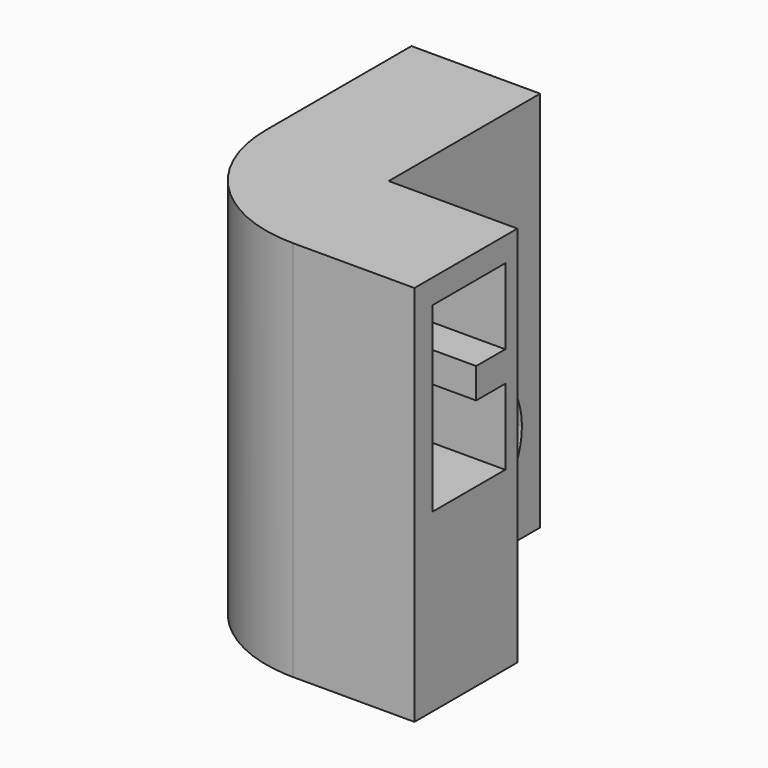
from build123d import *

# Parameters (mm, degrees)
F0_W      = 28.5392315894
F0_H      = 48.2956362042
F1_DEPTH  = 25.4
F1_FACE_W = 28.5392315894
F1_FACE_H = 48.2956362042
F2_ANGLE  = 90
F3_DEPTH  = 25.4
F4_W      = 26.9696157947
F4_H      = 26.9696157947
F5_DEPTH  = 50.14334
F8_W      = 6.35
F8_H      = 25.4
F9_DEPTH  = 25.4
F10_R     = 2.5796875
F11_DEPTH = 50.8
F13_DEPTH = 12.7
F15_DEPTH = 6.35
F16_DEPTH = 50.8


with BuildPart() as f1:
    # F0 (on Front) → F1 (new body)
    with BuildSketch(Plane.XZ):
        with Locations((-3.175, -0.3527777778)):
            Rectangle(F0_W, F0_H)
        Polygon((-12.7, -19.4027777778), (-12.7, 18.6972222222), (6.35, 18.6972222222), (6.35, 2.8222222222), (-1.27, 2.8222222222), (-1.27, -3.5277777778), (6.35, -3.5277777778), (6.35, -19.4027777778), align=None, mode=Mode.SUBTRACT)
    extrude(amount=F1_DEPTH)

    # F1_face (on face) → F2 (revolve)
    with BuildSketch(Plane(origin=(-2.7804632911, -25.4, -0.3527777778), x_dir=(1, 0, 0), z_dir=(0, -1, 0))):
        with Locations((-0.3945367089, 0)):
            Rectangle(F1_FACE_W, F1_FACE_H)
        Polygon((9.1304632911, -19.05), (-9.9195367089, -19.05), (-9.9195367089, 19.05), (9.1304632911, 19.05), (9.1304632911, 3.175), (1.5104632911, 3.175), (1.5104632911, -3.175), (9.1304632911, -3.175), align=None, mode=Mode.SUBTRACT)
    revolve(axis=Axis((11.0946157947, -25.4, -0.3527777778), (0, 0, 1)), revolution_arc=F2_ANGLE)

    # F3 (add): a face of the model
    f3_faces = [f1.faces().sort_by_distance(p)[0] for p in [
        (11.0946157947, -22.3630131274, -0.3527777778),
    ]]
    extrude(f3_faces, amount=F3_DEPTH)

    # F4 (on face) → F5 (cut, symmetric)
    with BuildSketch(Plane(origin=(0, 0, -24.5005958799), x_dir=(1, 0, 0), z_dir=(0, 0, -1))):
        with Locations((23.0098078974, 13.4848078974)):
            Rectangle(F4_W, F4_H)
    extrude(amount=F5_DEPTH, both=True, mode=Mode.SUBTRACT)

    # F8 (on face) + F6 (on face) → F9 (join)
    with BuildSketch(Plane(origin=(0, 0, -24.5005958799), x_dir=(1, 0, 0), z_dir=(0, 0, -1))):
        with Locations((-14.2696157947, 12.7)):
            Rectangle(F8_W, F8_H)
        with Locations((6.35, 12.7)):
            Rectangle(F8_W, F8_H)
    with BuildSketch(Plane(origin=(0, 0, -24.5005958799), x_dir=(1, 0, 0), z_dir=(0, 0, -1))):
        with BuildLine():
            Line((9.525, 0), (9.525, 26.9696157947))
            Line((9.525, 26.9696157947), (9.5198247534, 33.3196136858))
            Line((9.5198247534, 33.3196136858), (36.4946157947, 33.3415981335))
            Line((36.4946157947, 33.3415981335), (36.4946157947, 47.5892315894))
            Line((36.4946157947, 47.5892315894), (9.5198157947, 47.5892315894))
            Line((9.5198157947, 47.5892315894), (9.5198157947, 53.8957495896))
            ThreePointArc((9.5198157947, 53.8957495896), (-9.6349683982, 45.0156080432), (-17.4446157947, 25.4))
            Line((-17.4446157947, 25.4), (-17.4446157947, 0))
            Line((-17.4446157947, 0), (9.525, 0))
        make_face()
        with BuildLine():
            Line((9.5198157947, 47.5892315894), (36.4946157947, 47.5892315894))
            Line((36.4946157947, 47.5892315894), (36.4946157947, 53.9392315894))
            Line((36.4946157947, 53.9392315894), (11.0946157947, 53.9392315894))
            ThreePointArc((11.0946157947, 53.9392315894), (10.3069157052, 53.9283590184), (9.5198157947, 53.8957495896))
            Line((9.5198157947, 53.8957495896), (9.5198157947, 47.5892315894))
        make_face()
        Polygon((9.5198247534, 33.3196136858), (9.525, 26.9696157947), (36.4946157947, 26.9915960246), (36.4946157947, 33.3415981335), align=None)
    extrude(amount=F9_DEPTH)

    # F10 (on face) → F11 (cut)
    with BuildSketch(Plane(origin=(-17.4446157947, 0, 0), x_dir=(0, -1, 0), z_dir=(-1, 0, 0))):
        with Locations((12.7, -35.9203596757)):
            Circle(F10_R)
    extrude(amount=-F11_DEPTH, mode=Mode.SUBTRACT)

    # F12 (on face) → F13 (join)
    with BuildSketch(Plane(origin=(0, 0, 0), x_dir=(-1, 0, 0), z_dir=(0, 1, 0))):
        Polygon((-9.525, 23.7950403243), (-9.525, -0.3527777778), (-9.525, -49.9005958799), (17.4446157947, -49.9005958799), (17.4446157947, 23.7950403243), align=None)
        Polygon((1.27, -3.5277777778), (1.27, -0.3527777778), (1.27, 2.8222222222), (-6.35, 2.8222222222), (-6.35, 18.6972222222), (12.7, 18.6972222222), (12.7, -19.4027777778), (-6.35, -19.4027777778), (-6.35, -3.5277777778), align=None, mode=Mode.SUBTRACT)
    extrude(amount=F13_DEPTH)

    # F15 (add): a face of the model
    f15_faces = [f1.faces().sort_by_distance(p)[0] for p in [
        (4.9144212495, -24.754718946, -49.9005958799),
    ]]
    extrude(f15_faces, amount=F15_DEPTH)

    # F14 (on face) → F16 (cut)
    with BuildSketch(Plane(origin=(-17.4446157947, 0, 0), x_dir=(0, -1, 0), z_dir=(-1, 0, 0))):
        with BuildLine():
            Line((-7.9248, -35.6191955507), (10.1379524268, -35.6191955507))
            ThreePointArc((10.1379524268, -35.6191955507), (12.7, -33.3406721757), (15.2620475732, -35.6191955507))
            Line((15.2620475732, -35.6191955507), (20.6248, -35.6191955507))
            ThreePointArc((20.6248, -35.6191955507), (6.35, -21.3443955507), (-7.9248, -35.6191955507))
        make_face()
        with BuildLine():
            Line((12.7, -48.4038510032), (12.7, -38.5000471757))
            ThreePointArc((12.7, -38.5000471757), (10.772346384, -37.634693113), (10.1379524268, -35.6191955507))
            Line((10.1379524268, -35.6191955507), (-7.9248, -35.6191955507))
            ThreePointArc((-7.9248, -35.6191955507), (-1.1708023189, -47.7521031791), (12.7, -48.4038510032))
        make_face()
        with BuildLine():
            ThreePointArc((15.2796875, -35.9203596757), (14.5241145246, -37.7444742003), (12.7, -38.5000471757))
            Line((12.7, -38.5000471757), (12.7, -48.4038510032))
            ThreePointArc((12.7, -48.4038510032), (18.4829076284, -43.1399978696), (20.6248, -35.6191955507))
            Line((20.6248, -35.6191955507), (15.2620475732, -35.6191955507))
            ThreePointArc((15.2620475732, -35.6191955507), (15.2752737424, -35.7695195308), (15.2796875, -35.9203596757))
        make_face()
    extrude(amount=-F16_DEPTH, mode=Mode.SUBTRACT)


solid = f1.part
